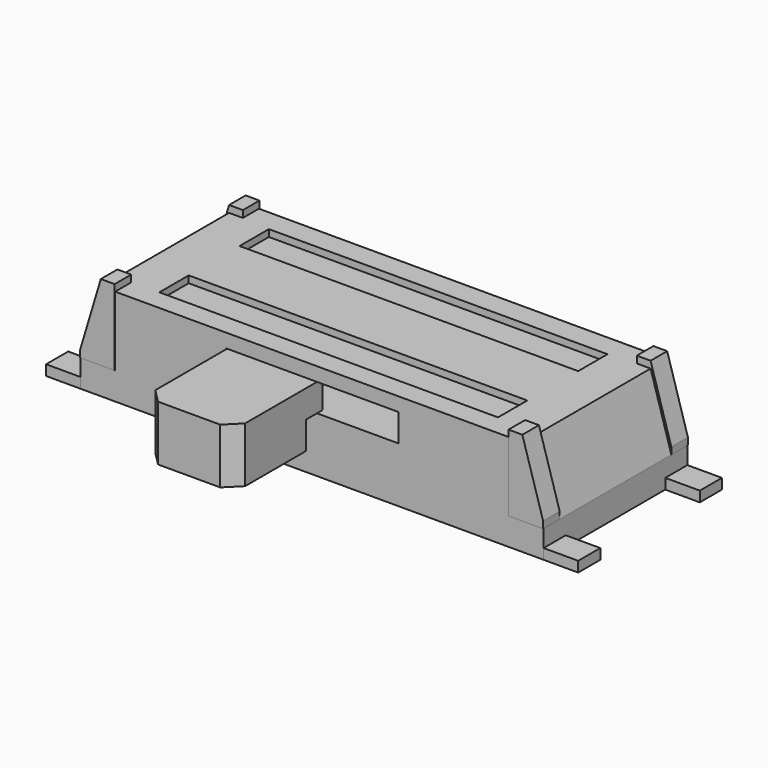
from build123d import *

# Parameters (mm, degrees)
BOX002_W                   = 1.3
BOX002_H                   = 1.3
BOX002_DEPTH               = 0.8
CHAMFER_SIZE               = 0.2
CHAMFER001_SIZE            = 0.2
BOX001_W                   = 1.3
BOX001_H                   = 0.4
BOX001_DEPTH               = 0.4
CYLINDER_R                 = 0.4
CYLINDER_DEPTH             = 0.7
CHAMFER003_SIZE            = 0.1
CYLINDER001_R              = 0.4
CYLINDER001_DEPTH          = 0.7
CHAMFER004_SIZE            = 0.1
BOX005_W                   = 0.5
BOX005_H                   = 0.3
BOX005_DEPTH               = 1.1
CHAMFER005_SIZE2           = 0.3
CHAMFER005_SIZE            = 1
BOX006_W                   = 0.5
BOX006_H                   = 0.3
BOX006_DEPTH               = 1.1
CHAMFER006_SIZE2           = 0.3
CHAMFER006_SIZE            = 1
BOX007_W                   = 0.5
BOX007_H                   = 0.3
BOX007_DEPTH               = 1.1
CHAMFER007_SIZE2           = 0.3
CHAMFER007_SIZE            = 1
CHAMFER007_PLACEMENT_ANGLE = 180
BOX008_W                   = 0.5
BOX008_H                   = 0.3
BOX008_DEPTH               = 1.1
CHAMFER008_SIZE2           = 0.3
CHAMFER008_SIZE            = 1
CHAMFER008_PLACEMENT_ANGLE = 180
BOX009_W                   = 0.5
BOX009_H                   = 0.4
BOX009_DEPTH               = 0.15
BOX010_W                   = 0.5
BOX010_H                   = 0.4
BOX010_DEPTH               = 0.15
BOX011_W                   = 0.5
BOX011_H                   = 0.4
BOX011_DEPTH               = 0.15
BOX012_W                   = 0.5
BOX012_H                   = 0.4
BOX012_DEPTH               = 0.15
BOX016_W                   = 0.8
BOX016_H                   = 0.4
BOX016_DEPTH               = 0.4
BOX017_W                   = 0.8
BOX017_H                   = 0.4
BOX017_DEPTH               = 0.4
BOX018_W                   = 0.8
BOX018_H                   = 0.4
BOX018_DEPTH               = 0.4
BOX015_W                   = 0.4
BOX015_H                   = 0.9
BOX015_DEPTH               = 0.15
FILLET004_R                = 0.1
BOX013_W                   = 0.4
BOX013_H                   = 0.9
BOX013_DEPTH               = 0.15
FILLET005_R                = 0.1
BOX014_W                   = 0.4
BOX014_H                   = 0.9
BOX014_DEPTH               = 0.15
FILLET006_R                = 0.1
BOX019_W                   = 4.9
BOX019_H                   = 0.53
BOX019_DEPTH               = 0.2
BOX020_W                   = 4.9
BOX020_H                   = 0.53
BOX020_DEPTH               = 0.2
BOX_W                      = 2.5
BOX_H                      = 2
BOX_DEPTH                  = 0.4
SKETCH_W                   = 6.7
SKETCH_H                   = 2.6
PAD_DEPTH                  = 1.4
CHAMFER002_1_SIZE2         = 0.3
CHAMFER002_1_SIZE          = 1
CHAMFER002_2_SIZE2         = 0.3
CHAMFER002_2_SIZE          = 1


with BuildPart() as chamfer001:
    # Box002 → Box002 (new body)
    with BuildSketch(Plane(origin=(-0.08, -2.8, 0.4), x_dir=(1, 0, 0), z_dir=(0, 0, 1))):
        with Locations((0.65, 0.65)):
            Rectangle(BOX002_W, BOX002_H)
    extrude(amount=BOX002_DEPTH)

    # Chamfer
    chamfer_edges = [chamfer001.edges().sort_by_distance(p)[0] for p in [
        (-0.08, -2.8, 0.8),
    ]]
    chamfer(chamfer_edges, length=CHAMFER_SIZE)

    # Chamfer001
    chamfer001_edges = [chamfer001.edges().sort_by_distance(p)[0] for p in [
        (1.22, -2.8, 0.8),
    ]]
    chamfer(chamfer001_edges, length=CHAMFER001_SIZE)


with BuildPart() as fusion:
    # Box001 → Box001 (new body)
    with BuildSketch(Plane(origin=(-0.08, -1.6, 0.8), x_dir=(1, 0, 0), z_dir=(0, 0, 1))):
        with Locations((0.65, 0.2)):
            Rectangle(BOX001_W, BOX001_H)
    extrude(amount=BOX001_DEPTH)

    # Fusion: union Chamfer001
    add(chamfer001.part)


with BuildPart() as fusion_1:
    # Fusion placement: moved
    add(fusion.part.moved(Location((-1.15, 0, 0))))


with BuildPart() as obj1:
    # Cylinder → Cylinder (new body)
    with BuildSketch(Plane(origin=(1.5, 0, -0.5), x_dir=(1, 0, 0), z_dir=(0, 0, 1))):
        Circle(CYLINDER_R)
    extrude(amount=CYLINDER_DEPTH)

    # Chamfer003
    chamfer003_edges = [obj1.edges().sort_by_distance(p)[0] for p in [
        (1.1, 0, -0.5),
    ]]
    chamfer(chamfer003_edges, length=CHAMFER003_SIZE)


with BuildPart() as obj2:
    # Cylinder001 → Cylinder001 (new body)
    with BuildSketch(Plane(origin=(-1.5, 0, -0.5), x_dir=(1, 0, 0), z_dir=(0, 0, 1))):
        Circle(CYLINDER001_R)
    extrude(amount=CYLINDER001_DEPTH)

    # Chamfer004
    chamfer004_edges = [obj2.edges().sort_by_distance(p)[0] for p in [
        (-1.9, 0, -0.5),
    ]]
    chamfer(chamfer004_edges, length=CHAMFER004_SIZE)


with BuildPart() as corner001:
    # Box005 → Box005 (new body)
    with BuildSketch(Plane(origin=(2.85, -1.3, 0.4), x_dir=(1, 0, 0), z_dir=(0, 0, 1))):
        with Locations((0.25, 0.15)):
            Rectangle(BOX005_W, BOX005_H)
    extrude(amount=BOX005_DEPTH)

    # Chamfer005
    chamfer005_edges = [corner001.edges().sort_by_distance(p)[0] for p in [
        (3.35, -1.15, 1.5),
    ]]
    chamfer005_side = corner001.faces().sort_by_distance((3.35, -1.15, 0.95))[0]
    chamfer(chamfer005_edges, length=CHAMFER005_SIZE, length2=CHAMFER005_SIZE2, reference=chamfer005_side)


with BuildPart() as corner001_1:
    # Chamfer005 placement: moved
    add(corner001.part.moved(Location((0, -0.01, 0))))


with BuildPart() as corner002:
    # Box006 → Box006 (new body)
    with BuildSketch(Plane(origin=(2.85, -1.3, 0.4), x_dir=(1, 0, 0), z_dir=(0, 0, 1))):
        with Locations((0.25, 0.15)):
            Rectangle(BOX006_W, BOX006_H)
    extrude(amount=BOX006_DEPTH)

    # Chamfer006
    chamfer006_edges = [corner002.edges().sort_by_distance(p)[0] for p in [
        (3.35, -1.15, 1.5),
    ]]
    chamfer006_side = corner002.faces().sort_by_distance((3.35, -1.15, 0.95))[0]
    chamfer(chamfer006_edges, length=CHAMFER006_SIZE, length2=CHAMFER006_SIZE2, reference=chamfer006_side)


with BuildPart() as corner002_1:
    # Chamfer006 placement: moved
    add(corner002.part.moved(Location((0, 2.31, 0))))


with BuildPart() as corner003:
    # Box007 → Box007 (new body)
    with BuildSketch(Plane(origin=(2.85, -1.3, 0.4), x_dir=(1, 0, 0), z_dir=(0, 0, 1))):
        with Locations((0.25, 0.15)):
            Rectangle(BOX007_W, BOX007_H)
    extrude(amount=BOX007_DEPTH)

    # Chamfer007
    chamfer007_edges = [corner003.edges().sort_by_distance(p)[0] for p in [
        (3.35, -1.15, 1.5),
    ]]
    chamfer007_side = corner003.faces().sort_by_distance((3.35, -1.15, 0.95))[0]
    chamfer(chamfer007_edges, length=CHAMFER007_SIZE, length2=CHAMFER007_SIZE2, reference=chamfer007_side)


with BuildPart() as corner003_1:
    # Chamfer007 placement: moved
    add(corner003.part.moved(Location((0, 0.01, 0))).rotate(Axis((0, 0.01, 0), (0, 0, 1)), CHAMFER007_PLACEMENT_ANGLE))


with BuildPart() as corner004:
    # Box008 → Box008 (new body)
    with BuildSketch(Plane(origin=(2.85, -1.3, 0.4), x_dir=(1, 0, 0), z_dir=(0, 0, 1))):
        with Locations((0.25, 0.15)):
            Rectangle(BOX008_W, BOX008_H)
    extrude(amount=BOX008_DEPTH)

    # Chamfer008
    chamfer008_edges = [corner004.edges().sort_by_distance(p)[0] for p in [
        (3.35, -1.15, 1.5),
    ]]
    chamfer008_side = corner004.faces().sort_by_distance((3.35, -1.15, 0.95))[0]
    chamfer(chamfer008_edges, length=CHAMFER008_SIZE, length2=CHAMFER008_SIZE2, reference=chamfer008_side)


with BuildPart() as corner004_1:
    # Chamfer008 placement: moved
    add(corner004.part.moved(Location((0, -2.31, 0))).rotate(Axis((0, -2.31, 0), (0, 0, 1)), CHAMFER008_PLACEMENT_ANGLE))


with BuildPart() as leg001:
    # Box009 → Box009 (new body)
    with BuildSketch(Plane(origin=(3.35, -1.3, 0), x_dir=(1, 0, 0), z_dir=(0, 0, 1))):
        with Locations((0.25, 0.2)):
            Rectangle(BOX009_W, BOX009_H)
    extrude(amount=BOX009_DEPTH)


with BuildPart() as leg002:
    # Box010 → Box010 (new body)
    with BuildSketch(Plane(origin=(3.35, 0.9, 0), x_dir=(1, 0, 0), z_dir=(0, 0, 1))):
        with Locations((0.25, 0.2)):
            Rectangle(BOX010_W, BOX010_H)
    extrude(amount=BOX010_DEPTH)


with BuildPart() as leg003:
    # Box011 → Box011 (new body)
    with BuildSketch(Plane(origin=(-3.85, -1.3, 0), x_dir=(1, 0, 0), z_dir=(0, 0, 1))):
        with Locations((0.25, 0.2)):
            Rectangle(BOX011_W, BOX011_H)
    extrude(amount=BOX011_DEPTH)


with BuildPart() as leg004:
    # Box012 → Box012 (new body)
    with BuildSketch(Plane(origin=(-3.85, 0.9, 0), x_dir=(1, 0, 0), z_dir=(0, 0, 1))):
        with Locations((0.25, 0.2)):
            Rectangle(BOX012_W, BOX012_H)
    extrude(amount=BOX012_DEPTH)


with BuildPart() as kub009:
    # Box016 → Box016 (new body)
    with BuildSketch(Plane(origin=(1.85, 0.91, 0), x_dir=(1, 0, 0), z_dir=(0, 0, 1))):
        with Locations((0.4, 0.2)):
            Rectangle(BOX016_W, BOX016_H)
    extrude(amount=BOX016_DEPTH)


with BuildPart() as kub010:
    # Box017 → Box017 (new body)
    with BuildSketch(Plane(origin=(0.35, 0.91, 0), x_dir=(1, 0, 0), z_dir=(0, 0, 1))):
        with Locations((0.4, 0.2)):
            Rectangle(BOX017_W, BOX017_H)
    extrude(amount=BOX017_DEPTH)


with BuildPart() as kub011:
    # Box018 → Box018 (new body)
    with BuildSketch(Plane(origin=(-2.65, 0.91, 0), x_dir=(1, 0, 0), z_dir=(0, 0, 1))):
        with Locations((0.4, 0.2)):
            Rectangle(BOX018_W, BOX018_H)
    extrude(amount=BOX018_DEPTH)


with BuildPart() as fillet004:
    # Box015 → Box015 (new body)
    with BuildSketch(Plane(origin=(2.05, 1.3, 0), x_dir=(1, 0, 0), z_dir=(0, 0, 1))):
        with Locations((0.2, 0.45)):
            Rectangle(BOX015_W, BOX015_H)
    extrude(amount=BOX015_DEPTH)

    # Fillet004
    fillet004_edges = [fillet004.edges().sort_by_distance(p)[0] for p in [
        (2.05, 1.75, 0.15),
        (2.45, 1.75, 0.15),
        (2.25, 2.2, 0.15),
    ]]
    fillet(fillet004_edges, radius=FILLET004_R)


with BuildPart() as fillet005:
    # Box013 → Box013 (new body)
    with BuildSketch(Plane(origin=(-2.45, 1.3, 0), x_dir=(1, 0, 0), z_dir=(0, 0, 1))):
        with Locations((0.2, 0.45)):
            Rectangle(BOX013_W, BOX013_H)
    extrude(amount=BOX013_DEPTH)

    # Fillet005
    fillet005_edges = [fillet005.edges().sort_by_distance(p)[0] for p in [
        (-2.45, 1.75, 0.15),
        (-2.05, 1.75, 0.15),
        (-2.25, 2.2, 0.15),
    ]]
    fillet(fillet005_edges, radius=FILLET005_R)


with BuildPart() as fillet006:
    # Box014 → Box014 (new body)
    with BuildSketch(Plane(origin=(0.55, 1.3, 0), x_dir=(1, 0, 0), z_dir=(0, 0, 1))):
        with Locations((0.2, 0.45)):
            Rectangle(BOX014_W, BOX014_H)
    extrude(amount=BOX014_DEPTH)

    # Fillet006
    fillet006_edges = [fillet006.edges().sort_by_distance(p)[0] for p in [
        (0.55, 1.75, 0.15),
        (0.95, 1.75, 0.15),
        (0.75, 2.2, 0.15),
    ]]
    fillet(fillet006_edges, radius=FILLET006_R)


with BuildPart() as kub012:
    # Box019 → Box019 (new body)
    with BuildSketch(Plane(origin=(-2.45, 0.45, 1.3), x_dir=(1, 0, 0), z_dir=(0, 0, 1))):
        with Locations((2.45, 0.265)):
            Rectangle(BOX019_W, BOX019_H)
    extrude(amount=BOX019_DEPTH)


with BuildPart() as kub013:
    # Box020 → Box020 (new body)
    with BuildSketch(Plane(origin=(-2.45, -1, 1.3), x_dir=(1, 0, 0), z_dir=(0, 0, 1))):
        with Locations((2.45, 0.265)):
            Rectangle(BOX020_W, BOX020_H)
    extrude(amount=BOX020_DEPTH)


with BuildPart() as kub:
    # Box → Box (new body)
    with BuildSketch(Plane(origin=(-1.25, -2, 0.8), x_dir=(1, 0, 0), z_dir=(0, 0, 1))):
        with Locations((1.25, 1)):
            Rectangle(BOX_W, BOX_H)
    extrude(amount=BOX_DEPTH)


with BuildPart() as cut002:
    # Sketch → Pad (new body)
    with BuildSketch(Plane.XY):
        Rectangle(SKETCH_W, SKETCH_H)
    extrude(amount=PAD_DEPTH)

    # Cut: cut Kub
    add(kub.part, mode=Mode.SUBTRACT)

    # Chamfer002 1
    chamfer002_1_edges = [cut002.edges().sort_by_distance(p)[0] for p in [
        (3.35, 0, 1.4),
    ]]
    chamfer002_1_side = cut002.faces().sort_by_distance((3.35, 0, 0.7))[0]
    chamfer(chamfer002_1_edges, length=CHAMFER002_1_SIZE, length2=CHAMFER002_1_SIZE2, reference=chamfer002_1_side)

    # Chamfer002 2
    chamfer002_2_edges = [cut002.edges().sort_by_distance(p)[0] for p in [
        (-3.35, 0, 1.4),
    ]]
    chamfer002_2_side = cut002.faces().sort_by_distance((-3.35, 0, 0.7))[0]
    chamfer(chamfer002_2_edges, length=CHAMFER002_2_SIZE, length2=CHAMFER002_2_SIZE2, reference=chamfer002_2_side)

    # Cut001: cut Kub013
    add(kub013.part, mode=Mode.SUBTRACT)

    # Cut002: cut Kub012
    add(kub012.part, mode=Mode.SUBTRACT)


solid = Compound([fusion_1.part, obj1.part, obj2.part, corner001_1.part, corner002_1.part, corner003_1.part, corner004_1.part, leg001.part, leg002.part, leg003.part, leg004.part, kub009.part, kub010.part, kub011.part, fillet004.part, fillet005.part, fillet006.part, cut002.part])
